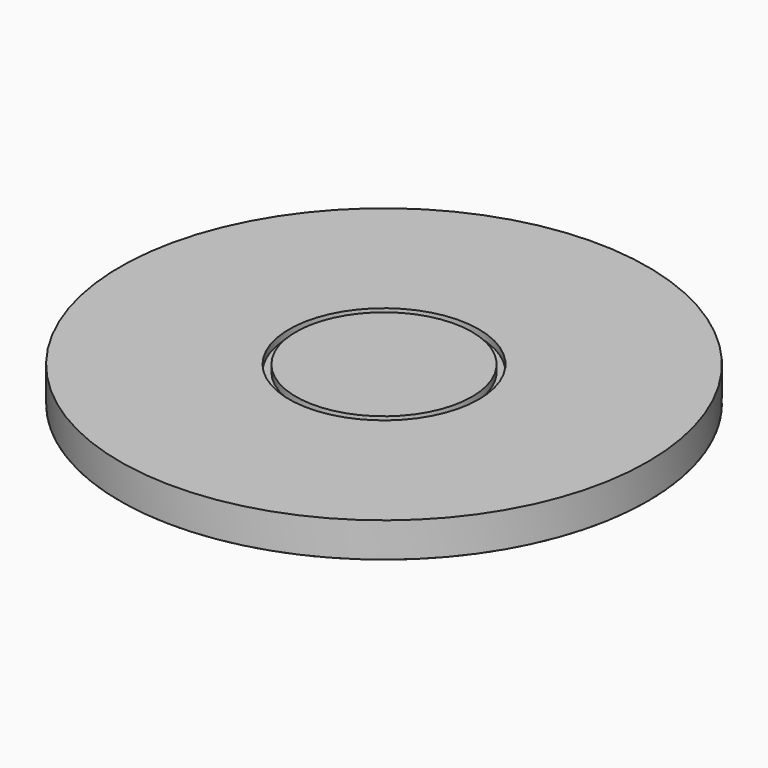
from build123d import *

# Parameters (mm, degrees)
F0_R     = 19.05
F1_DEPTH = 2.5
F2_R     = 6.85
F2_R_2   = 6.35
F3_DEPTH = 0.5


with BuildPart() as f1:
    # F0 (on Top) → F1 (new body)
    with BuildSketch(Plane.XY):
        Circle(F0_R)
    extrude(amount=F1_DEPTH)

    # F2 (on face) → F3 (cut)
    with BuildSketch(Plane.XY.offset(2.5)):
        Circle(F2_R)
        Circle(F2_R_2, mode=Mode.SUBTRACT)
    extrude(amount=-F3_DEPTH, mode=Mode.SUBTRACT)


with BuildPart() as f5:
    # F4 (on Front) → F5 (revolve)
    with BuildSketch(Plane.XZ):
        with BuildLine():
            Line((0, 0), (-19.05, 0))
            ThreePointArc((-19.05, 0), (-18.124981, -0.135675), (-17.197082, -0.25))
            Line((-17.197082, -0.25), (0, -0.25))
            Line((0, -0.25), (0, 0))
        make_face()
    revolve(axis=Axis((0, 0, -0.125), (0, 0, -1)))


solid = Compound([f1.part, f5.part])
